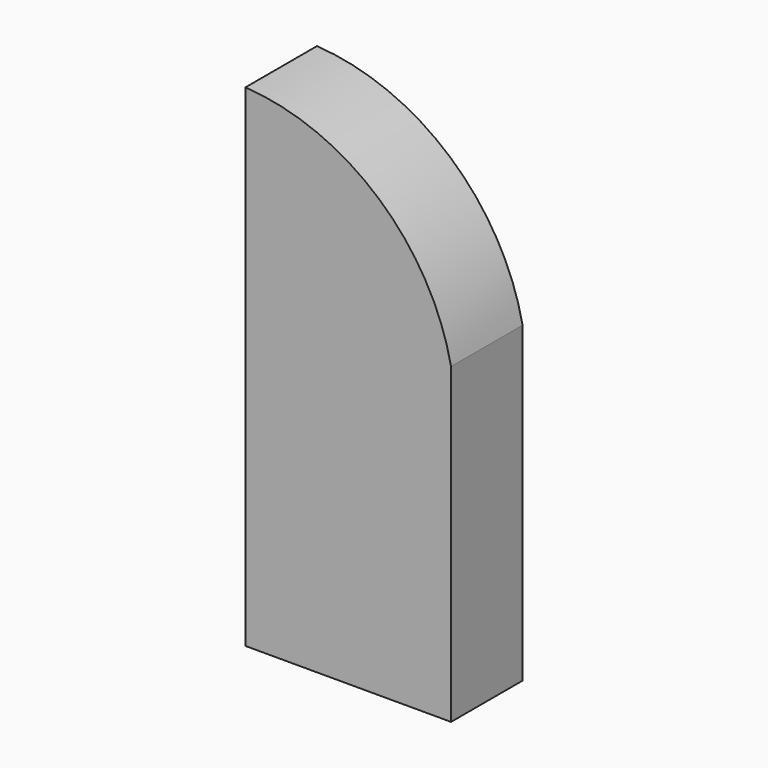
from build123d import *

# Parameters (mm, degrees)
F1_DEPTH = 25.4
F2_R     = 31.75
F3_DEPTH = 25.4
F2_R_2   = 3.175
F5_DEPTH = 12.7
F6_DEPTH = 50.8


with BuildPart() as f1:
    # F0 (on Front) → F1 (new body)
    with BuildSketch(Plane.XZ):
        with BuildLine():
            ThreePointArc((27.7778723818, 19.05), (7.2048117222, 54.3824802414), (-30.6421276182, 69.85))
            Line((-30.6421276182, 69.85), (-30.6421276182, -69.85))
            Line((-30.6421276182, -69.85), (27.7778723818, -69.85))
            Line((27.7778723818, -69.85), (27.7778723818, 19.05))
        make_face()
    extrude(amount=F1_DEPTH)

    # F2 (on face) → F3, piece 2 (join)
    with BuildSketch(Plane(origin=(0, 0, -69.85), x_dir=(1, 0, 0), z_dir=(0, 0, -1))):
        with Locations((0, 14.7020313889)):
            Circle(F2_R_2)
    extrude(amount=F3_DEPTH)

    # F5 (cut): a face of the model
    f5_faces = [f1.faces().sort_by_distance(p)[0] for p in [
        (0, -14.7020313889, -95.25),
    ]]
    extrude(f5_faces, amount=-F5_DEPTH, mode=Mode.SUBTRACT)

    # F6 (cut): a face of the model
    f6_faces = [f1.faces().sort_by_distance(p)[0] for p in [
        (0, -14.7020313889, -82.55),
    ]]
    extrude(f6_faces, amount=-F6_DEPTH, mode=Mode.SUBTRACT)


with BuildPart() as f3:
    # F2 (on face) → F3 (new body)
    with BuildSketch(Plane(origin=(0, 0, -69.85), x_dir=(1, 0, 0), z_dir=(0, 0, -1))):
        with Locations((0, 116.4425893424)):
            Circle(F2_R)
    extrude(amount=F3_DEPTH)


solid = f1.part
